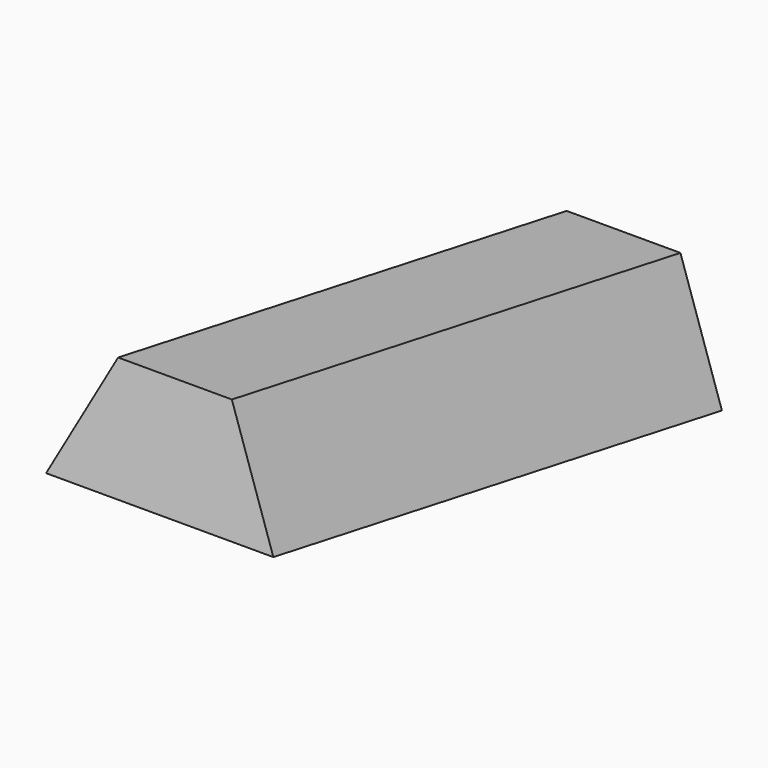
from build123d import *

# Parameters (mm, degrees)
PAD_DEPTH            = 100
BODY_PLACEMENT_ANGLE = 80


with BuildPart() as part:
    # Sketch → Pad (new body)
    with BuildSketch(Plane.XY):
        Polygon((-9.979424, 19.990026), (-19.855965, 0), (20.061731, 0), (9.995762, 19.990026), align=None)
    extrude(amount=PAD_DEPTH)


with BuildPart() as part_1:
    # Body placement: moved
    add(part.part.rotate(Axis((0, 0, 0), (1, 0, 0)), BODY_PLACEMENT_ANGLE))


solid = part_1.part
